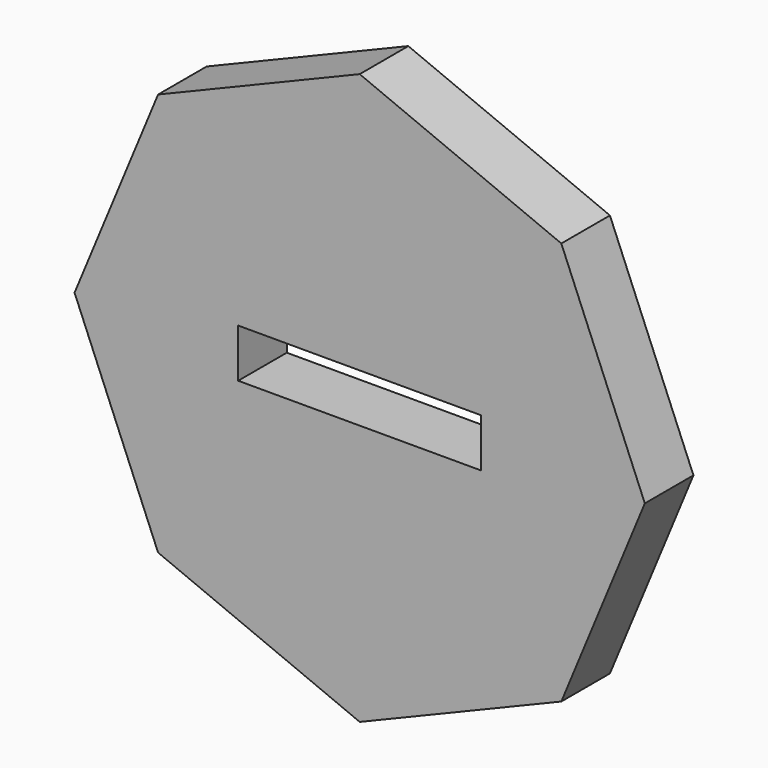
from build123d import *

# Parameters (mm, degrees)
F1_DEPTH = 10


with BuildPart() as f1:
    # F0 (on Front) → F1 (new body)
    with BuildSketch(Plane.XZ):
        Polygon((-33.185543, 33.185543), (-46.931445, 0), (-33.185543, -33.185543), (0, -46.931445), (33.185543, -33.185543), (46.931445, 0), (33.185543, 33.185543), (0, 46.931445), align=None)
        Polygon((-20, -4), (-20, 0), (-20, 4), (0, 4), (20, 4), (20, 0), (20, -4), (0, -4), align=None, mode=Mode.SUBTRACT)
    extrude(amount=F1_DEPTH)


solid = f1.part
